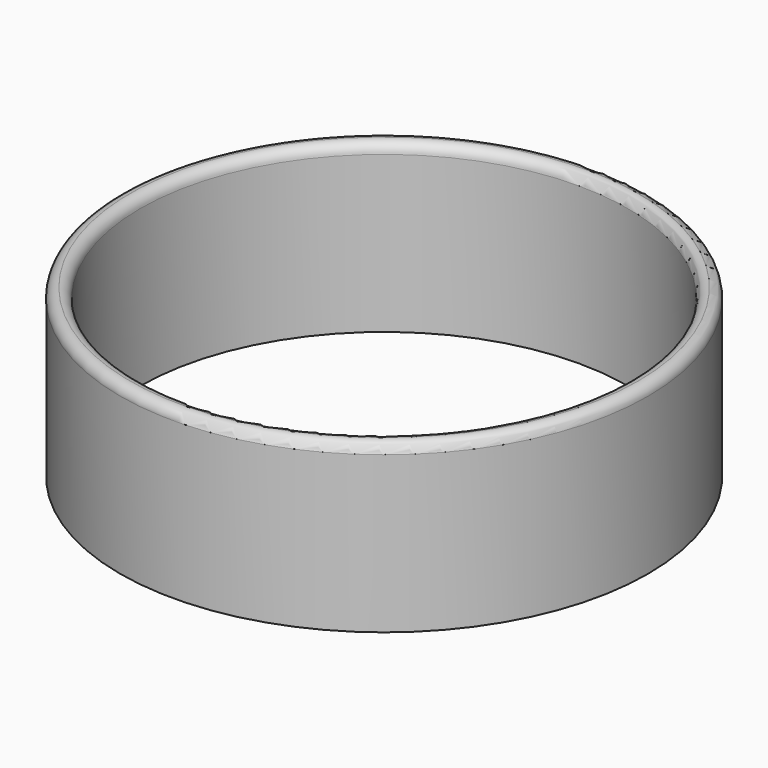
from build123d import *

# Parameters (mm, degrees)
F0_R     = 39.685
F1_DEPTH = 25
F2_R     = 36.675481
F3_DEPTH = 25
F4_R     = 1.5


with BuildPart() as f1:
    # F0 (on Top) → F1 (new body)
    with BuildSketch(Plane.XY):
        Circle(F0_R)
    extrude(amount=F1_DEPTH)

    # F2 (on face) → F3 (cut)
    with BuildSketch(Plane.XY.offset(25)):
        Circle(F2_R)
    extrude(amount=-F3_DEPTH, mode=Mode.SUBTRACT)

    # F4
    f4_edges = [f1.edges().sort_by_distance(p)[0] for p in [
        (-36.675481, 0, 25),
        (-39.685, 0, 25),
    ]]
    fillet(f4_edges, radius=F4_R)


solid = f1.part
